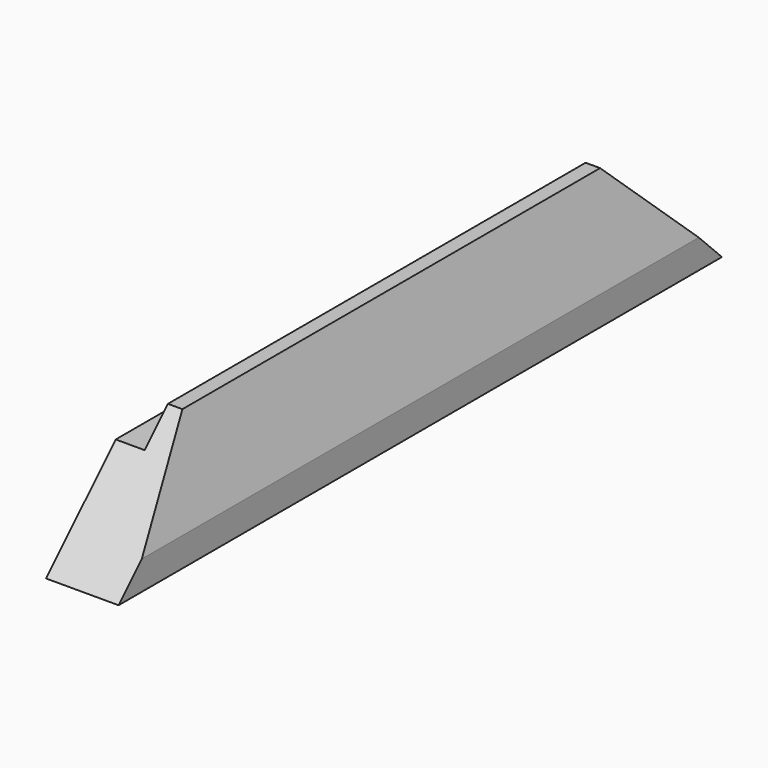
from build123d import *

# Parameters (mm, degrees)
F0_W     = 165.1
F0_H     = 25.4
F1_DEPTH = 15.875
F3_W     = 6.35
F3_H     = 6.35
F4_DEPTH = 165.101
F5_DEPTH = 15.876
F6_SIZE2 = 6.348172
F6_SIZE  = 19.05


with BuildPart() as f1:
    # F0 (on Right) → F1 (new body)
    with BuildSketch(Plane.YZ):
        with Locations((2.164774, 0)):
            Rectangle(F0_W, F0_H)
    extrude(amount=F1_DEPTH)

    # F3 (on face) → F4 (cut, through all)
    with BuildSketch(Plane.XZ.offset(80.385226)):
        with Locations((3.175, 9.525)):
            Rectangle(F3_W, F3_H)
    extrude(amount=-F4_DEPTH, mode=Mode.SUBTRACT)

    # F2 (on face) → F5 (cut, through all)
    with BuildSketch(Plane.YZ.offset(15.875)):
        Polygon((-80.385226, 12.7), (-80.385226, -12.7), (-54.985226, 12.7), align=None)
        Polygon((59.314774, 12.7), (84.714774, -12.7), (84.714774, 12.7), align=None)
    extrude(amount=-F5_DEPTH, mode=Mode.SUBTRACT)

    # F6
    f6_edges = [f1.edges().sort_by_distance(p)[0] for p in [
        (15.875, 2.164774, 12.7),
    ]]
    chamfer(f6_edges, length=F6_SIZE, length2=F6_SIZE2)


solid = f1.part
